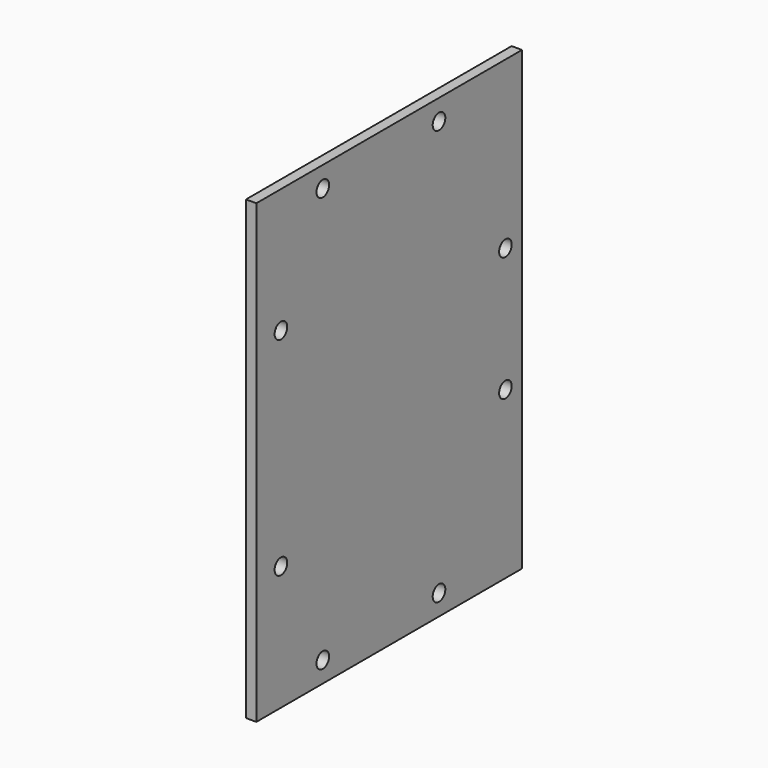
from build123d import *

# Parameters (mm, degrees)
F0_W     = 3.175
F0_H     = 101.6
F1_DEPTH = 69.85
F2_R     = 2.413
F3_DEPTH = 3.175
F4_R     = 2.413
F5_DEPTH = 3.175
F6_R     = 2.413
F7_DEPTH = 3.175
F8_R     = 2.413
F9_DEPTH = 3.175


with BuildPart() as f1:
    # F0 (on Top) → F1 (new body, symmetric)
    with BuildSketch(Plane.XY):
        Rectangle(F0_W, F0_H)
    extrude(amount=F1_DEPTH, both=True)

    # F2 (on face) → F3 (cut, through all)
    with BuildSketch(Plane(origin=(-1.5875, 0, 0), x_dir=(0, -1, 0), z_dir=(-1, 0, 0))):
        with Locations((-44.45, -19.05)):
            Circle(F2_R)
        with Locations((-44.45, 19.05)):
            Circle(F2_R)
    extrude(amount=-F3_DEPTH, mode=Mode.SUBTRACT)

    # F4 (on face) → F5 (cut, through all)
    with BuildSketch(Plane(origin=(-1.5875, 0, 0), x_dir=(0, -1, 0), z_dir=(-1, 0, 0))):
        with Locations((-19.05, -63.5)):
            Circle(F4_R)
        with Locations((-19.05, 63.5)):
            Circle(F4_R)
    extrude(amount=-F5_DEPTH, mode=Mode.SUBTRACT)

    # F6 (on face) → F7 (cut, through all)
    with BuildSketch(Plane(origin=(-1.5875, 0, 0), x_dir=(0, -1, 0), z_dir=(-1, 0, 0))):
        with Locations((25.4, -63.5)):
            Circle(F6_R)
        with Locations((25.4, 63.5)):
            Circle(F6_R)
    extrude(amount=-F7_DEPTH, mode=Mode.SUBTRACT)

    # F8 (on face) → F9 (cut, through all)
    with BuildSketch(Plane.YZ.offset(1.5875)):
        with Locations((-41.402, 31.75)):
            Circle(F8_R)
        with Locations((-41.402, -31.75)):
            Circle(F8_R)
    extrude(amount=-F9_DEPTH, mode=Mode.SUBTRACT)


solid = f1.part
